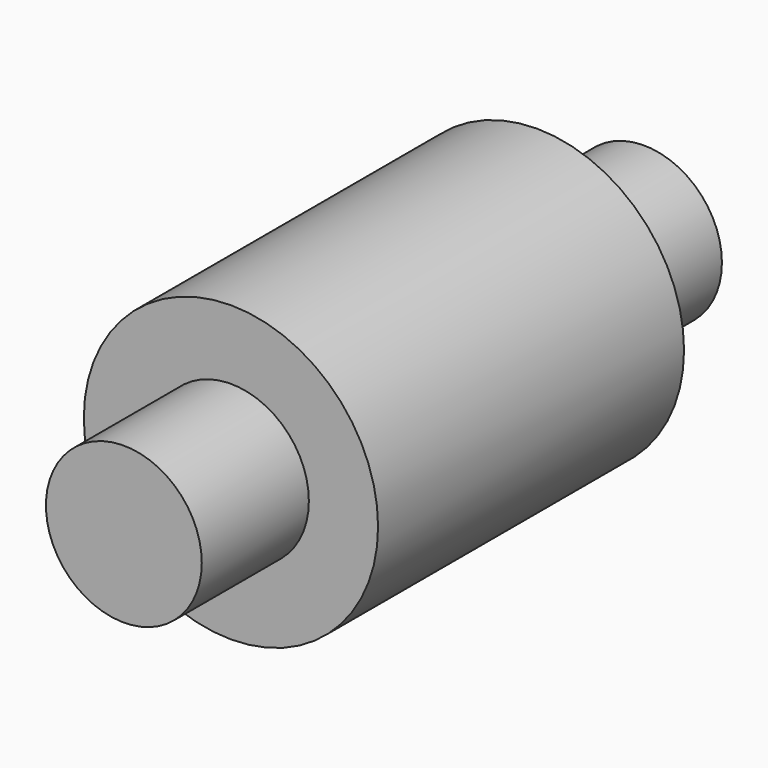
from build123d import *

# Parameters (mm, degrees)
F0_R     = 38.47128
F0_R_2   = 20.373798
F1_DEPTH = 50
F2_DEPTH = 85
F3_DEPTH = 85
F4_DEPTH = 50


with BuildPart() as f1:
    # F0 (on Front) → F1 (new body)
    with BuildSketch(Plane.XZ):
        Circle(F0_R)
        Circle(F0_R_2, mode=Mode.SUBTRACT)
    extrude(amount=F1_DEPTH)

    # F0 (on Front) → F2 (join)
    with BuildSketch(Plane.XZ):
        Circle(F0_R_2)
    extrude(amount=F2_DEPTH)

    # F0 (on Front) → F3 (join)
    with BuildSketch(Plane.XZ):
        Circle(F0_R_2)
    extrude(amount=-F3_DEPTH)

    # F0 (on Front) → F4 (join)
    with BuildSketch(Plane.XZ):
        Circle(F0_R)
        Circle(F0_R_2, mode=Mode.SUBTRACT)
    extrude(amount=-F4_DEPTH)


solid = f1.part
